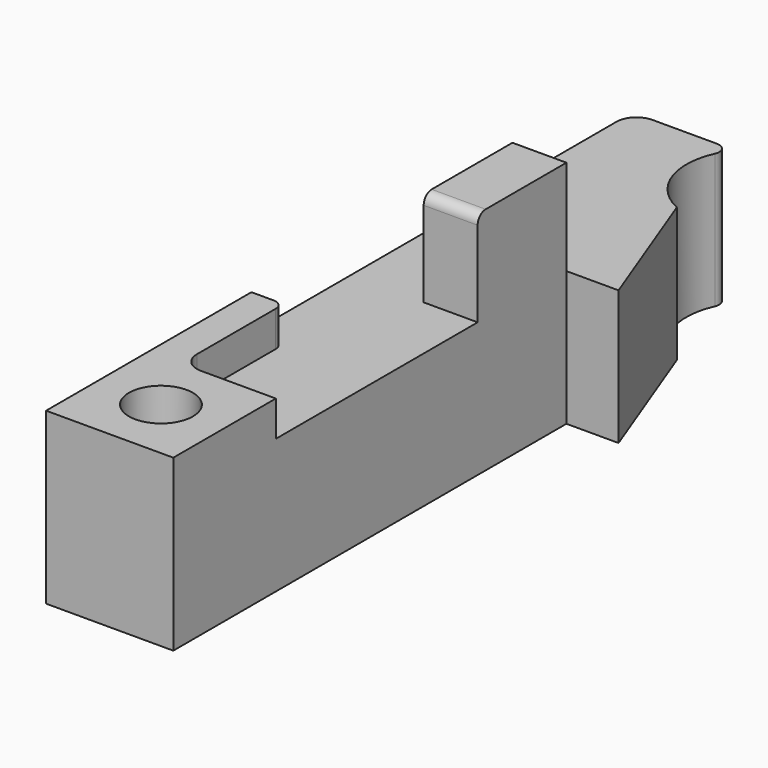
from build123d import *

# Parameters (mm, degrees)
F1_DEPTH  = 26.9
F3_DEPTH  = 7.1
F5_DEPTH  = 10.8
F7_DEPTH  = 6
F8_R      = 6.4
F9_DEPTH  = 34.001
F10_R     = 9.6
F10_R_2   = 6.4
F11_DEPTH = 8


with BuildPart() as f1:
    # F0 (on Top) → F1 (new body)
    with BuildSketch(Plane.XY):
        Polygon((10.43, 24.99), (0, 52.61), (0, 24.99), align=None)
        with BuildLine():
            Line((-8.521254, 73.34), (-21.46, 73.34))
            ThreePointArc((-21.46, 73.34), (-24.288427, 72.168427), (-25.46, 69.34))
            Line((-25.46, 69.34), (-25.46, -73.34))
            Line((-25.46, -73.34), (0, -73.34))
            Line((0, -73.34), (0, 24.99))
            Line((0, 24.99), (0, 52.61))
            ThreePointArc((0, 52.61), (-7.063822, 60.169557), (-6.701861, 70.509453))
            ThreePointArc((-6.701861, 70.509453), (-6.838831, 72.421413), (-8.521254, 73.34))
        make_face()
    extrude(amount=F1_DEPTH)

    # F2 (on face) → F3 (join)
    with BuildSketch(Plane.XY.offset(26.9)):
        with BuildLine():
            Line((-25.46, -73.34), (0, -73.34))
            Line((0, -73.34), (0, -47.7))
            Line((0, -47.7), (-14.99, -47.7))
            ThreePointArc((-14.99, -47.7), (-17.818427, -46.528427), (-18.99, -43.7))
            Line((-18.99, -43.7), (-18.99, -23.98))
            ThreePointArc((-18.99, -23.98), (-19.575786, -22.565786), (-20.99, -21.98))
            Line((-20.99, -21.98), (-25.46, -21.98))
            Line((-25.46, -21.98), (-25.46, -73.34))
        make_face()
    extrude(amount=F3_DEPTH)

    # F4 (on face) → F5 (join)
    with BuildSketch(Plane.YZ):
        with BuildLine():
            Line((2.79, 26.9), (24.99, 26.9))
            Line((24.99, 26.9), (24.99, 46))
            Line((24.99, 46), (4.79, 46))
            ThreePointArc((4.79, 46), (3.375786, 45.414214), (2.79, 44))
            Line((2.79, 44), (2.79, 26.9))
        make_face()
    extrude(amount=-F5_DEPTH)

    # F6 (on face) → F7 (cut)
    with BuildSketch(Plane(origin=(-10.8, 0, 0), x_dir=(0, -1, 0), z_dir=(-1, 0, 0))):
        with BuildLine():
            ThreePointArc((-13.89, 32.3), (-10.955507, 33.515507), (-9.74, 36.45))
            ThreePointArc((-9.74, 36.45), (-10.955507, 39.384493), (-13.89, 40.6))
            Line((-13.89, 40.6), (-13.89, 32.3))
        make_face()
        with BuildLine():
            Line((-13.89, 32.3), (-13.89, 40.6))
            ThreePointArc((-13.89, 40.6), (-18.04, 36.45), (-13.89, 32.3))
        make_face()
    extrude(amount=-F7_DEPTH, mode=Mode.SUBTRACT)

    # F8 (on face) → F9 (cut, through all)
    with BuildSketch(Plane.XY.offset(34)):
        with Locations((-12.73, -60.52)):
            Circle(F8_R)
    extrude(amount=-F9_DEPTH, mode=Mode.SUBTRACT)

    # F10 (on face) → F11 (cut)
    with BuildSketch(Plane(origin=(0, 0, 0), x_dir=(1, 0, 0), z_dir=(0, 0, -1))):
        with Locations((-12.73, 60.52)):
            Circle(F10_R)
        with Locations((-12.73, 60.52)):
            Circle(F10_R_2, mode=Mode.SUBTRACT)
    extrude(amount=-F11_DEPTH, mode=Mode.SUBTRACT)


solid = f1.part
